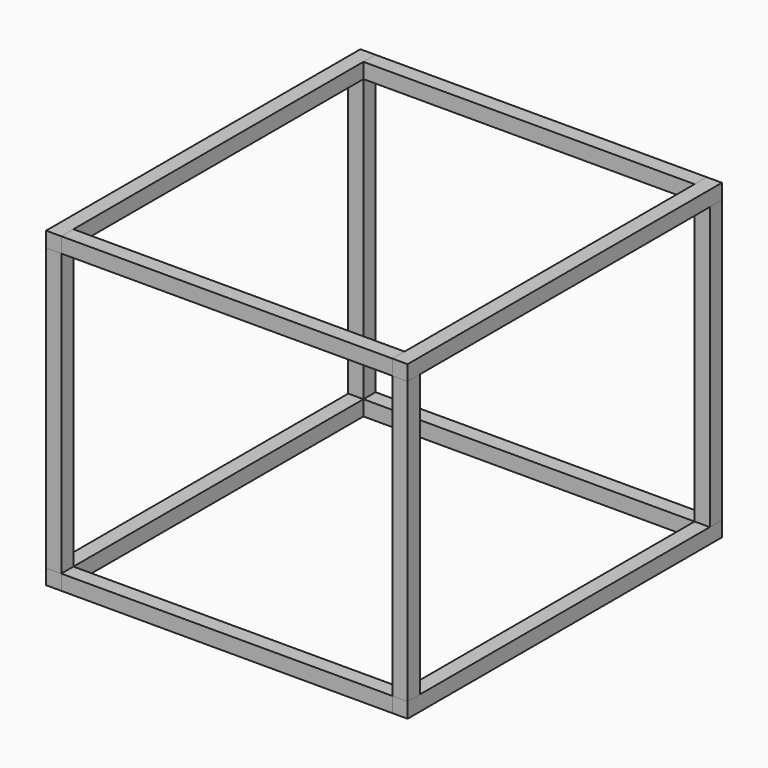
from build123d import *

# Parameters (mm, degrees)
F0_W     = 20
F0_H     = 20
F1_DEPTH = 371
F2_W     = 20
F2_H     = 20
F3_DEPTH = 435.975
F4_W     = 20
F4_H     = 20
F5_DEPTH = 517.25


with BuildPart() as f1:
    # F0 (on Top) → F1 (new body)
    with BuildSketch(Plane.XY):
        with Locations((227.9875, 248.625)):
            Rectangle(F0_W, F0_H)
    extrude(amount=F1_DEPTH)


with BuildPart() as f1b:
    # F0 (on Top) → F1, piece 2 (new body)
    with BuildSketch(Plane.XY):
        with Locations((-227.9875, 248.625)):
            Rectangle(F0_W, F0_H)
    extrude(amount=F1_DEPTH)


with BuildPart() as f1c:
    # F0 (on Top) → F1, piece 3 (new body)
    with BuildSketch(Plane.XY):
        with Locations((-227.9875, -248.625)):
            Rectangle(F0_W, F0_H)
    extrude(amount=F1_DEPTH)


with BuildPart() as f1d:
    # F0 (on Top) → F1, piece 4 (new body)
    with BuildSketch(Plane.XY):
        with Locations((227.9875, -248.625)):
            Rectangle(F0_W, F0_H)
    extrude(amount=F1_DEPTH)


with BuildPart() as f3:
    # F2 (on face) → F3 (new body, through all)
    with BuildSketch(Plane(origin=(217.9875, 0, 0), x_dir=(0, -1, 0), z_dir=(-1, 0, 0))):
        with Locations((-248.625, 381)):
            Rectangle(F2_W, F2_H)
    extrude(amount=F3_DEPTH)


with BuildPart() as f3b:
    # F2 (on face) → F3, piece 2 (new body, through all)
    with BuildSketch(Plane(origin=(217.9875, 0, 0), x_dir=(0, -1, 0), z_dir=(-1, 0, 0))):
        with Locations((248.625, 381)):
            Rectangle(F2_W, F2_H)
    extrude(amount=F3_DEPTH)


with BuildPart() as f3c:
    # F2 (on face) → F3, piece 3 (new body, through all)
    with BuildSketch(Plane(origin=(217.9875, 0, 0), x_dir=(0, -1, 0), z_dir=(-1, 0, 0))):
        with Locations((-248.625, -10)):
            Rectangle(F2_W, F2_H)
    extrude(amount=F3_DEPTH)


with BuildPart() as f3d:
    # F2 (on face) → F3, piece 4 (new body, through all)
    with BuildSketch(Plane(origin=(217.9875, 0, 0), x_dir=(0, -1, 0), z_dir=(-1, 0, 0))):
        with Locations((248.625, -10)):
            Rectangle(F2_W, F2_H)
    extrude(amount=F3_DEPTH)


with BuildPart() as f5:
    # F4 (on face) → F5 (new body, through all)
    with BuildSketch(Plane(origin=(0, 258.625, 0), x_dir=(-1, 0, 0), z_dir=(0, 1, 0))):
        with Locations((-227.9875, -10)):
            Rectangle(F4_W, F4_H)
    extrude(amount=-F5_DEPTH)


with BuildPart() as f5b:
    # F4 (on face) → F5, piece 2 (new body, through all)
    with BuildSketch(Plane(origin=(0, 258.625, 0), x_dir=(-1, 0, 0), z_dir=(0, 1, 0))):
        with Locations((227.9875, -10)):
            Rectangle(F4_W, F4_H)
    extrude(amount=-F5_DEPTH)


with BuildPart() as f5c:
    # F4 (on face) → F5, piece 3 (new body, through all)
    with BuildSketch(Plane(origin=(0, 258.625, 0), x_dir=(-1, 0, 0), z_dir=(0, 1, 0))):
        with Locations((227.9875, 381)):
            Rectangle(F4_W, F4_H)
    extrude(amount=-F5_DEPTH)


with BuildPart() as f5d:
    # F4 (on face) → F5, piece 4 (new body, through all)
    with BuildSketch(Plane(origin=(0, 258.625, 0), x_dir=(-1, 0, 0), z_dir=(0, 1, 0))):
        with Locations((-227.9875, 381)):
            Rectangle(F4_W, F4_H)
    extrude(amount=-F5_DEPTH)


solid = Compound([f1.part, f1b.part, f1c.part, f1d.part, f3.part, f3b.part, f3c.part, f3d.part, f5.part, f5b.part, f5c.part, f5d.part])
